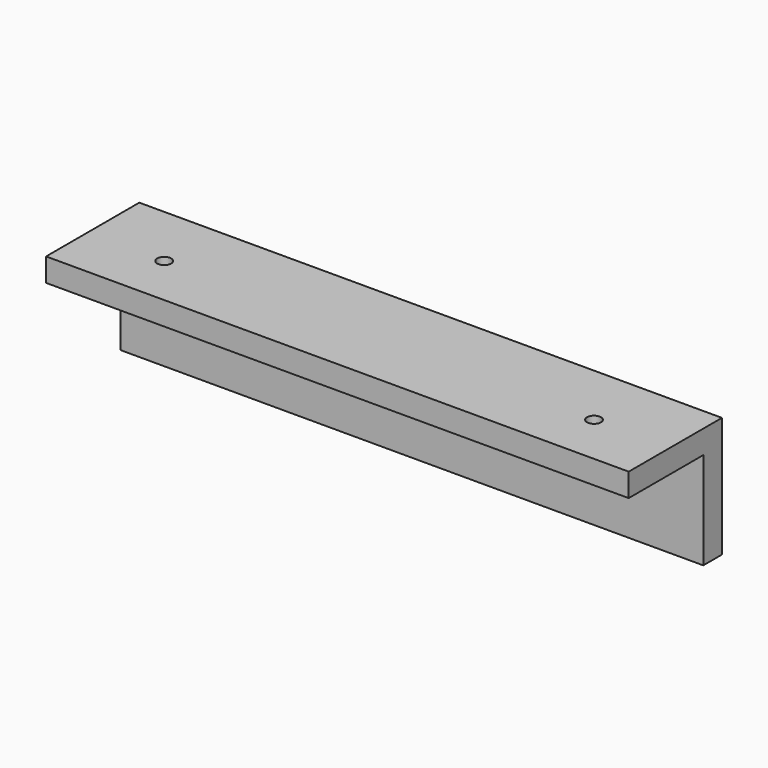
from build123d import *

# Parameters (mm, degrees)
F0_W     = 150
F0_H     = 25
F0_H_2   = 6
F1_DEPTH = 6
F2_DEPTH = 30
F3_R     = 4
F3_R_2   = 1.8
F4_DEPTH = 27.31
F5_DEPTH = 25


with BuildPart() as f1:
    # F0 (on Front) → F1 (new body)
    with BuildSketch(Plane.XZ):
        with Locations((36.419376108, 12.5)):
            Rectangle(F0_W, F0_H)
        with Locations((36.419376108, 28)):
            Rectangle(F0_W, F0_H_2)
    extrude(amount=F1_DEPTH)

    # F0 (on Front) → F2 (join)
    with BuildSketch(Plane.XZ):
        with Locations((36.419376108, 28)):
            Rectangle(F0_W, F0_H_2)
    extrude(amount=F2_DEPTH)

    # F3 (on Top) → F4 (cut)
    with BuildSketch(Plane.XY):
        with Locations((91.85885638, -16.7120620608)):
            Circle(F3_R)
        with Locations((91.8588588197, -16.7120620608)):
            Circle(F3_R_2, mode=Mode.SUBTRACT)
        with Locations((-18.8037762601, -16.7120620608)):
            Circle(F3_R)
        with Locations((-18.8037762601, -16.7120620608)):
            Circle(F3_R_2, mode=Mode.SUBTRACT)
    extrude(amount=F4_DEPTH, mode=Mode.SUBTRACT)

    # F5 (cut): faces of the model
    f5_faces = [f1.faces().sort_by_distance(p)[0] for p in [
        (-18.8037762601, -16.7120620608, 25),
        (91.8588588197, -16.7120620608, 25),
    ]]
    extrude(f5_faces, amount=-F5_DEPTH, mode=Mode.SUBTRACT)


solid = f1.part
